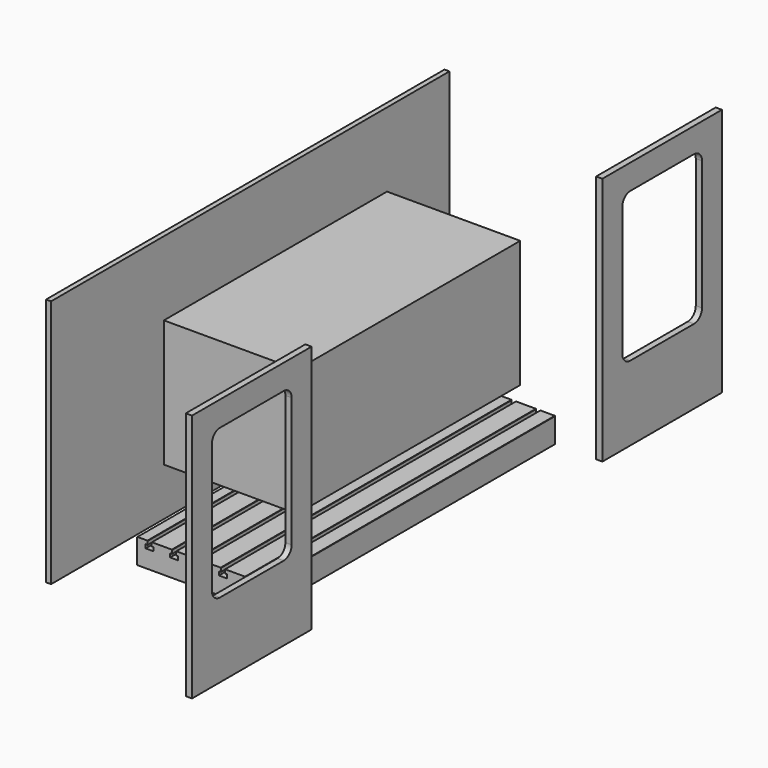
from build123d import *

# Parameters (mm, degrees)
F1_DEPTH      = 1460
F2_SIZE       = 1
F4_W          = 2000
F4_H          = 1000
F5_DEPTH      = 20
F6_W          = 1120
F6_H          = 510
F7_DEPTH      = 510
F7_DEPTH_BACK = 25
F9_W          = 600
F9_H          = 1000
F10_DEPTH     = 25


with BuildPart() as f1:
    # F0 (on Front) → F1 (new body)
    with BuildSketch(Plane.XZ):
        Polygon((0, 100), (0, 0), (510, 0), (510, 100), (450, 100), (450, 84.980359), (458, 84.980359), (458, 70), (426, 70), (426, 85), (434, 85), (434, 100), (352, 100), (352, 84.980359), (360, 84.980359), (360, 70), (328, 70), (328, 85), (336, 85), (336, 100), (254, 100), (254, 84.980359), (262, 84.980359), (262, 70), (230, 70), (230, 85), (238, 85), (238, 100), (156, 100), (156, 84.980359), (164, 84.980359), (164, 70), (132, 70), (132, 85), (140, 85), (140, 100), (58, 100), (58, 84.980359), (66, 84.980359), (66, 70), (34, 70), (34, 85), (42, 85), (42, 100), align=None)
    extrude(amount=F1_DEPTH)

    # F2
    f2_edges = [f1.edges().sort_by_distance(p)[0] for p in [
        (42, -730, 100),
        (58, -730, 100),
        (140, -730, 100),
        (156, -730, 100),
        (238, -730, 100),
        (254, -730, 100),
        (336, -730, 100),
        (352, -730, 100),
        (434, -730, 100),
        (450, -730, 100),
        (510, -730, 100),
        (0, -730, 100),
    ]]
    chamfer(f2_edges, length=F2_SIZE)


with BuildPart() as f5:
    # F4 (on offset) → F5 (new body)
    with BuildSketch(Plane.YZ.offset(-130)):
        with Locations((-730, 500)):
            Rectangle(F4_W, F4_H)
    extrude(amount=-F5_DEPTH)


with BuildPart() as f7:
    # F6 (on Right) → F7 (new body, two sides)
    with BuildSketch(Plane.YZ) as f7_sk:
        with Locations((-735, 535)):
            Rectangle(F6_W, F6_H)
    extrude(amount=F7_DEPTH)
    extrude(f7_sk.sketch, amount=-F7_DEPTH_BACK)


with BuildPart() as f10:
    # F9 (on offset) → F10 (new body)
    with BuildSketch(Plane.YZ.offset(675)):
        with Locations((300, 500)):
            Rectangle(F9_W, F9_H)
        with BuildLine():
            ThreePointArc((100, 860), (111.715729, 888.284271), (140, 900))
            Line((140, 900), (460, 900))
            ThreePointArc((460, 900), (488.284271, 888.284271), (500, 860))
            Line((500, 860), (500, 340))
            ThreePointArc((500, 340), (488.284271, 311.715729), (460, 300))
            Line((460, 300), (140, 300))
            ThreePointArc((140, 300), (111.715729, 311.715729), (100, 340))
            Line((100, 340), (100, 860))
        make_face(mode=Mode.SUBTRACT)
    extrude(amount=F10_DEPTH)


with BuildPart() as f12_1:
    # F12: instance of F10
    add(f10.part.mirror(Plane.XZ.offset(730)))


solid = Compound([f1.part, f5.part, f7.part, f10.part, f12_1.part])
